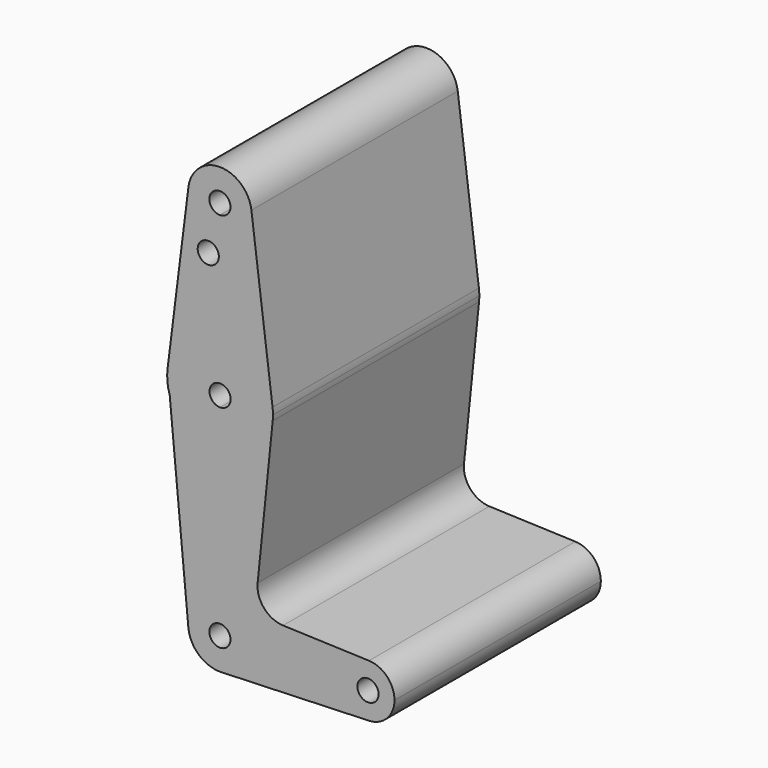
from build123d import *

# Parameters (mm, degrees)
F0_R     = 0.125
F1_DEPTH = 3.048


with BuildPart() as f1:
    # F0 (on Front) → F1 (new body)
    with BuildSketch(Plane.XZ):
        with BuildLine():
            ThreePointArc((-0.3720984156, 2.5741217785), (-0.2811447494, 2.2794039939), (0, 2.1525624712))
            ThreePointArc((0, 2.1525624712), (0.2651650429, 2.2623974283), (0.375, 2.5275624712))
            ThreePointArc((0.375, 2.5275624712), (0.3742539772, 2.5512048177), (0.3720188771, 2.5747530964))
            ThreePointArc((0.3720188771, 2.5747530964), (-0.0003181543, 2.9025623362), (-0.3720984156, 2.5741217785))
        make_face()
        with BuildLine():
            ThreePointArc((0.125, 2.5275624712), (0.0883883476, 2.4391741235), (0, 2.4025624712))
            ThreePointArc((0, 2.4025624712), (-0.0883883476, 2.6159508188), (0.125, 2.5275624712))
        make_face(mode=Mode.SUBTRACT)
        with BuildLine():
            ThreePointArc((0.375, 2.5275624712), (0.2651650429, 2.2623974283), (0, 2.1525624712))
            Line((0, 2.1525624712), (0, 1.1525601678))
            ThreePointArc((0, 1.1525601678), (0.4142596657, 0.997048255), (0.6217282856, 0.6062135107))
            Line((0.6217282856, 0.6062135107), (0.3720188771, 2.5747530964))
            ThreePointArc((0.3720188771, 2.5747530964), (0.3742539772, 2.5512048177), (0.375, 2.5275624712))
        make_face()
        with BuildLine():
            Line((0, 1.1525601678), (0, 2.1525624712))
            ThreePointArc((0, 2.1525624712), (-0.2811447494, 2.2794039939), (-0.3720984156, 2.5741217785))
            Line((-0.3720984156, 2.5741217785), (-0.6184672025, 0.6051613167))
            ThreePointArc((-0.6184672025, 0.6051613167), (-0.4125363289, 0.9955751798), (0, 1.1525601678))
        make_face()
        with Locations((-0.1376738655, 1.9655624712)):
            Circle(F0_R, mode=Mode.SUBTRACT)
        with BuildLine():
            ThreePointArc((0.6217282856, 0.6062135107), (0.4142596657, 0.997048255), (0, 1.1525601678))
            Line((0, 1.1525601678), (0, 0.6525509538))
            ThreePointArc((0, 0.6525509538), (0.0894832036, 0.6165487144), (0.1266968235, 0.5275624712))
            ThreePointArc((0.1266968235, 0.5275624712), (0.0894832036, 0.438576228), (0, 0.4025739886))
            Line((0, 0.4025739886), (0, -0.0974352254))
            ThreePointArc((0, -0.0974352254), (0.4199918999, 0.0631766089), (0.6234722794, 0.4641567736))
            ThreePointArc((0.6234722794, 0.4641567736), (0.6258901669, 0.4958186522), (0.6266968235, 0.5275624712))
            ThreePointArc((0.6266968235, 0.5275624712), (0.6254534523, 0.5669663808), (0.6217282856, 0.6062135107))
        make_face()
        with BuildLine():
            Line((0, 0.6525509538), (0, 1.1525601678))
            ThreePointArc((0, 1.1525601678), (-0.4125363289, 0.9955751798), (-0.6184672025, 0.6051613167))
            Line((-0.6184672025, 0.6051613167), (-0.5932126984, 0.3359700373))
            ThreePointArc((-0.5932126984, 0.3359700373), (-0.3670101242, 0.022903986), (0, -0.0974352254))
            Line((0, -0.0974352254), (0, 0.4025739886))
            ThreePointArc((0, 0.4025739886), (-0.1233031765, 0.5275624712), (0, 0.6525509538))
        make_face()
        with BuildLine():
            Line((-0.5932126984, 0.3359700373), (-0.6184672025, 0.6051613167))
            ThreePointArc((-0.6184672025, 0.6051613167), (-0.6205707379, 0.4691836904), (-0.5932126984, 0.3359700373))
        make_face()
        with BuildLine():
            ThreePointArc((0, -0.0974352254), (-0.3670101242, 0.022903986), (-0.5932126984, 0.3359700373))
            Line((-0.5932126984, 0.3359700373), (-0.3733605368, -2.0074647973))
            ThreePointArc((-0.3733605368, -2.0074647973), (-0.2772726327, -1.7199600305), (0, -1.5974375288))
            Line((0, -1.5974375288), (0, -0.0974352254))
        make_face()
        with BuildLine():
            ThreePointArc((0.6234722794, 0.4641567736), (0.4199918999, 0.0631766089), (0, -0.0974352254))
            Line((0, -0.0974352254), (0, -1.5974375288))
            ThreePointArc((0, -1.5974375288), (0.2651650429, -1.7072724859), (0.375, -1.9724375288))
            Line((0.375, -1.9724375288), (1.4375, -1.9724375288))
            ThreePointArc((1.4375, -1.9724375288), (1.5330109141, -1.7475553672), (1.7611607143, -1.6601368909))
            Line((1.7611607143, -1.6601368909), (0.7458894235, -1.623854055))
            ThreePointArc((0.7458894235, -1.623854055), (0.5210781972, -1.5166694343), (0.4456828467, -1.279300162))
            Line((0.4456828467, -1.279300162), (0.6234722794, 0.4641567736))
        make_face()
        with BuildLine():
            ThreePointArc((0, -1.5974375288), (-0.2772726327, -1.7199600305), (-0.3733605368, -2.0074647973))
            ThreePointArc((-0.3733605368, -2.0074647973), (-0.24748514, -2.2541751825), (0.0133928591, -2.3471982943))
            ThreePointArc((0.0133928591, -2.3471982943), (0.2698585946, -2.2328244312), (0.375, -1.9724375288))
            Line((0.375, -1.9724375288), (0.125, -1.9724375288))
            ThreePointArc((0.125, -1.9724375288), (-0.0883883476, -2.0608258765), (0, -1.8474375288))
            Line((0, -1.8474375288), (0, -1.5974375288))
        make_face()
        with BuildLine():
            ThreePointArc((0.375, -1.9724375288), (0.2698585946, -2.2328244312), (0.0133928591, -2.3471982943))
            Line((0.0133928591, -2.3471982943), (1.7611607143, -2.2847381667))
            ThreePointArc((1.7611607143, -2.2847381667), (1.5330109141, -2.1973196904), (1.4375, -1.9724375288))
            Line((1.4375, -1.9724375288), (0.375, -1.9724375288))
        make_face()
        with BuildLine():
            ThreePointArc((1.4375, -1.9724375288), (1.5330109141, -2.1973196904), (1.7611607143, -2.2847381667))
            ThreePointArc((1.7611607143, -2.2847381667), (1.9748821616, -2.1894266147), (2.0625, -1.9724375288))
            ThreePointArc((2.0625, -1.9724375288), (1.9748821616, -1.7554484429), (1.7611607143, -1.6601368909))
            ThreePointArc((1.7611607143, -1.6601368909), (1.5330109141, -1.7475553672), (1.4375, -1.9724375288))
        make_face()
        with BuildLine():
            ThreePointArc((1.875, -1.9724375288), (1.75, -2.0974375288), (1.625, -1.9724375288))
            ThreePointArc((1.625, -1.9724375288), (1.75, -1.8474375288), (1.875, -1.9724375288))
        make_face(mode=Mode.SUBTRACT)
        with BuildLine():
            ThreePointArc((0.375, -1.9724375288), (0.2651650429, -1.7072724859), (0, -1.5974375288))
            Line((0, -1.5974375288), (0, -1.8474375288))
            ThreePointArc((0, -1.8474375288), (0.0883883476, -1.8840491812), (0.125, -1.9724375288))
            Line((0.125, -1.9724375288), (0.375, -1.9724375288))
        make_face()
    extrude(amount=F1_DEPTH)


solid = f1.part
